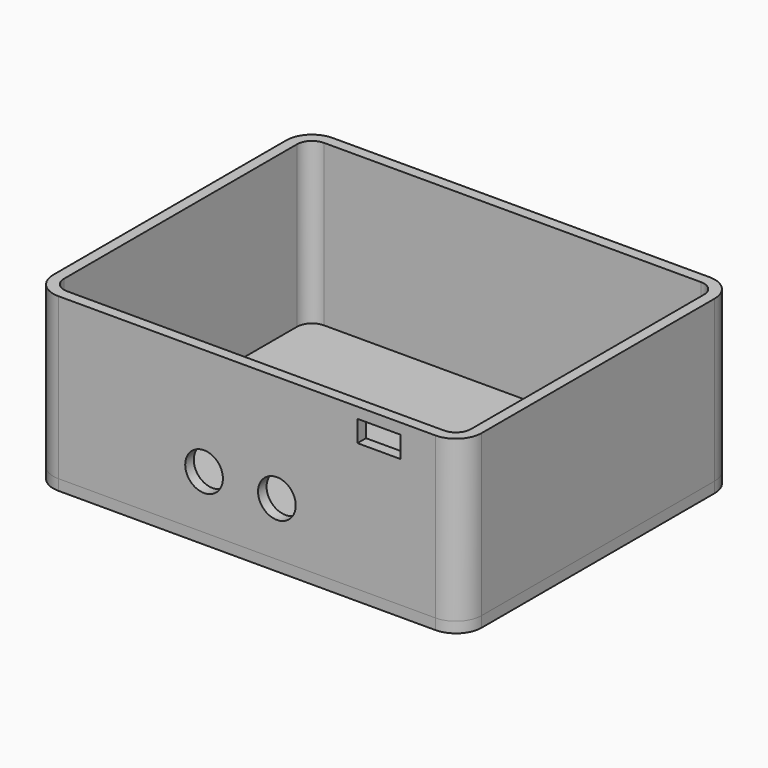
from build123d import *

# Parameters (mm, degrees)
F0_W      = 100
F0_H      = 80
F1_DEPTH  = 40
F2_R      = 6
F3_T      = -2.5
F5_D      = 31
F7_D      = 8.8
F7_DEPTH  = 5
F7_TIP    = 2.6437867237
F8_W      = 10
F8_H      = 5
F9_DEPTH  = 2.5
F10_DEPTH = 2.5
F11_R     = 6


with BuildPart() as f1:
    # F0 (on Top) → F1 (new body)
    with BuildSketch(Plane.XY):
        Rectangle(F0_W, F0_H)
    extrude(amount=F1_DEPTH)

    # F2
    f2_edges = [f1.edges().sort_by_distance(p)[0] for p in [
        (-50, -40, 20),
        (50, -40, 20),
        (50, 40, 20),
        (-50, 40, 20),
    ]]
    fillet(f2_edges, radius=F2_R)

    # F3
    f3_openings = [f1.faces().sort_by_distance(p)[0] for p in [
        (0, 0, 40),
    ]]
    offset(amount=F3_T, openings=f3_openings)

    # F5 (through all)
    with Locations(Plane(origin=(0, 0, 0), x_dir=(1, 0, 0), z_dir=(0, 0, -1))):
        with Locations((-22, 0)):
            Hole(F5_D / 2)

    # F7
    with Locations(Plane.XZ.offset(40)):
        with Locations((-10, 15), (7, 15)):
            Hole(F7_D / 2, depth=F7_DEPTH)
            with Locations((0, 0, -(F7_DEPTH + F7_TIP / 2))):  # 118° drill point
                Cone(0, F7_D / 2, F7_TIP, mode=Mode.SUBTRACT)

    # F8 (on face) → F9 (cut, through all)
    with BuildSketch(Plane.XZ.offset(40)):
        with Locations((30.8, 35)):
            Rectangle(F8_W, F8_H)
    extrude(amount=-F9_DEPTH, mode=Mode.SUBTRACT)


with BuildPart() as f10:
    # F0 (on Top) → F10 (new body)
    with BuildSketch(Plane.XY):
        Rectangle(F0_W, F0_H)
    extrude(amount=F10_DEPTH)

    # F11
    f11_edges = [f10.edges().sort_by_distance(p)[0] for p in [
        (50, -40, 1.25),
        (50, 40, 1.25),
        (-50, -40, 1.25),
        (-50, 40, 1.25),
    ]]
    fillet(f11_edges, radius=F11_R)


solid = Compound([f1.part, f10.part])
